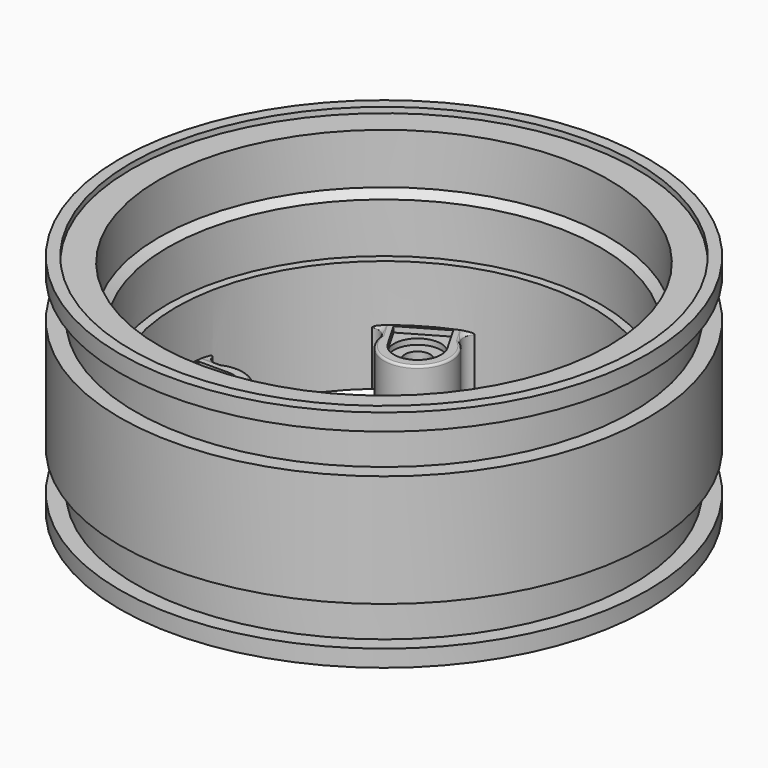
from build123d import *

# Parameters (mm, degrees)
CYLINDER097_R             = 19.25
CYLINDER097_DEPTH         = 5
CYLINDER018_R             = 22.5
CYLINDER018_DEPTH         = 0.5
CYLINDER070_R             = 20
CYLINDER070_DEPTH         = 5
CYLINDER006_R             = 18.5
CYLINDER006_DEPTH         = 20
CYLINDER002_R             = 22.1
CYLINDER002_DEPTH         = 17
CYLINDER001_R             = 23.5
CYLINDER001_DEPTH         = 17
CYLINDER_R                = 23.5
CYLINDER_DEPTH            = 20
CYLINDER003_R             = 22
CYLINDER003_DEPTH         = 17
CYLINDER004_R             = 23.5
CYLINDER004_DEPTH         = 10
BOX011_W                  = 2.7
BOX011_H                  = 4.2
BOX011_DEPTH              = 0.5
CYLINDER069_R             = 2.1
CYLINDER069_DEPTH         = 1
CYLINDER068_R             = 1.1
CYLINDER068_DEPTH         = 5
BOX010_W                  = 0.75
BOX010_H                  = 8
BOX010_DEPTH              = 5
CYLINDER012_R             = 3
CYLINDER012_DEPTH         = 5
BOX_W                     = 2
BOX_H                     = 5.5
BOX_DEPTH                 = 5
FILLET049_R               = 0.2
FILLET050_R               = 1.2
FILLET050_PLACEMENT_ANGLE = 120
FILLET057_R               = 0.2
FILLET058_R               = 1.2
FILLET051_R               = 0.2
FILLET052_R               = 1.2
FILLET052_PLACEMENT_ANGLE = 180
FILLET055_R               = 0.2
FILLET056_R               = 1.2
FILLET056_PLACEMENT_ANGLE = -60
FILLET053_R               = 0.2
FILLET054_R               = 1.2
FILLET054_PLACEMENT_ANGLE = 240
FILLET047_R               = 0.2
FILLET048_R               = 1.2
FILLET048_PLACEMENT_ANGLE = 60
FUSION026_PLACEMENT_ANGLE = 180
FUSION040_PLACEMENT_ANGLE = 180


with BuildPart() as cylinder097:
    # Cylinder097 → Cylinder097 (new body)
    with BuildSketch(Plane.XY.offset(5)):
        Circle(CYLINDER097_R)
    extrude(amount=CYLINDER097_DEPTH)


with BuildPart() as cone:
    # Cone → Cone (revolve)
    with BuildSketch(Plane(origin=(0, 0, 5), x_dir=(1, 0, 0), z_dir=(0, -1, 0))):
        Polygon((0, 0), (20, 0), (12, 6), (0, 6), align=None)
    revolve(axis=Axis((0, 0, 5), (0, 0, 1)))


with BuildPart() as cylinder018:
    # Cylinder018 → Cylinder018 (new body)
    with BuildSketch(Plane.XY):
        Circle(CYLINDER018_R)
    extrude(amount=CYLINDER018_DEPTH)


with BuildPart() as cylinder070:
    # Cylinder070 → Cylinder070 (new body)
    with BuildSketch(Plane.XY):
        Circle(CYLINDER070_R)
    extrude(amount=CYLINDER070_DEPTH)


with BuildPart() as cylinder006:
    # Cylinder006 → Cylinder006 (new body)
    with BuildSketch(Plane.XY):
        Circle(CYLINDER006_R)
    extrude(amount=CYLINDER006_DEPTH)


with BuildPart() as cylinder002:
    # Cylinder002 → Cylinder002 (new body)
    with BuildSketch(Plane.XY):
        Circle(CYLINDER002_R)
    extrude(amount=CYLINDER002_DEPTH)


with BuildPart() as cut:
    # Cylinder001 → Cylinder001 (new body)
    with BuildSketch(Plane.XY):
        Circle(CYLINDER001_R)
    extrude(amount=CYLINDER001_DEPTH)

    # Cut: cut Cylinder002
    add(cylinder002.part, mode=Mode.SUBTRACT)


with BuildPart() as cut_1:
    # Cut placement: moved
    add(cut.part.moved(Location((0, 0, 1.5))))


with BuildPart() as cut001:
    # Cylinder → Cylinder (new body)
    with BuildSketch(Plane.XY):
        Circle(CYLINDER_R)
    extrude(amount=CYLINDER_DEPTH)

    # Cut001: cut Cut
    add(cut_1.part, mode=Mode.SUBTRACT)


with BuildPart() as cylinder003:
    # Cylinder003 → Cylinder003 (new body)
    with BuildSketch(Plane.XY):
        Circle(CYLINDER003_R)
    extrude(amount=CYLINDER003_DEPTH)


with BuildPart() as rim_outer:
    # Cylinder004 → Cylinder004 (new body)
    with BuildSketch(Plane.XY.offset(0.5)):
        Circle(CYLINDER004_R)
    extrude(amount=CYLINDER004_DEPTH)

    # Cut002: cut Cylinder003
    add(cylinder003.part, mode=Mode.SUBTRACT)


with BuildPart() as rim_outer_1:
    # Cut002 placement: moved
    add(rim_outer.part.moved(Location((0, 0, 4.5))))

    # Fusion: union Cut001
    add(cut001.part)

    # Cut031: cut Cylinder006
    add(cylinder006.part, mode=Mode.SUBTRACT)

    # Cut057: cut Cylinder070
    add(cylinder070.part, mode=Mode.SUBTRACT)

    # Cut058: cut Cylinder018
    add(cylinder018.part, mode=Mode.SUBTRACT)

    # Cut061: cut Cone
    add(cone.part, mode=Mode.SUBTRACT)

    # Cut062: cut Cylinder097
    add(cylinder097.part, mode=Mode.SUBTRACT)


with BuildPart() as cube011:
    # Box011 → Box011 (new body)
    with BuildSketch(Plane(origin=(15.5, -2.1, 19.5), x_dir=(1, 0, 0), z_dir=(0, 0, 1))):
        with Locations((1.35, 2.1)):
            Rectangle(BOX011_W, BOX011_H)
    extrude(amount=BOX011_DEPTH)


with BuildPart() as cylinder069:
    # Cylinder069 → Cylinder069 (new body)
    with BuildSketch(Plane(origin=(15.5, 0, 19), x_dir=(1, 0, 0), z_dir=(0, 0, 1))):
        Circle(CYLINDER069_R)
    extrude(amount=CYLINDER069_DEPTH)


with BuildPart() as fusion025:
    # Cylinder068 → Cylinder068 (new body)
    with BuildSketch(Plane(origin=(15.5, 0, 15), x_dir=(1, 0, 0), z_dir=(0, 0, 1))):
        Circle(CYLINDER068_R)
    extrude(amount=CYLINDER068_DEPTH)

    # Fusion025: union Cylinder069
    add(cylinder069.part)


with BuildPart() as cube010:
    # Box010 → Box010 (new body)
    with BuildSketch(Plane(origin=(18.2, -4, 15), x_dir=(1, 0, 0), z_dir=(0, 0, 1))):
        with Locations((0.375, 4)):
            Rectangle(BOX010_W, BOX010_H)
    extrude(amount=BOX010_DEPTH)


with BuildPart() as cylinder012:
    # Cylinder012 → Cylinder012 (new body)
    with BuildSketch(Plane(origin=(15.5, 0, 15), x_dir=(1, 0, 0), z_dir=(0, 0, 1))):
        Circle(CYLINDER012_R)
    extrude(amount=CYLINDER012_DEPTH)


with BuildPart() as cut030:
    # Box → Box (new body)
    with BuildSketch(Plane(origin=(16.5, -2.75, 15), x_dir=(1, 0, 0), z_dir=(0, 0, 1))):
        with Locations((1, 2.75)):
            Rectangle(BOX_W, BOX_H)
    extrude(amount=BOX_DEPTH)

    # Fusion024: union Cube010, Cylinder012
    add(cube010.part)
    add(cylinder012.part)

    # Cut029: cut Fusion025
    add(fusion025.part, mode=Mode.SUBTRACT)

    # Cut030: cut Cube011
    add(cube011.part, mode=Mode.SUBTRACT)


with BuildPart() as fillet050:
    # Fillet049 base: copy of Cut030
    add(cut030.part)

    # Fillet049
    fillet049_edges = [fillet050.edges().sort_by_distance(p)[0] for p in [
        (18.2, -3.375, 20),
        (18.575, -4, 20),
        (17.449479, -2.75, 20),
        (18.95, 0, 20),
        (12.5, 0, 20),
        (18.575, 4, 20),
        (17.449479, 2.75, 20),
        (18.2, 3.375, 20),
    ]]
    fillet(fillet049_edges, radius=FILLET049_R)

    # Fillet050
    fillet050_edges = [fillet050.edges().sort_by_distance(p)[0] for p in [
        (18.2, -2.75, 17.4),
        (18.2, 2.75, 17.4),
    ]]
    fillet(fillet050_edges, radius=FILLET050_R)


with BuildPart() as fillet050_1:
    # Fillet050 placement: moved
    add(fillet050.part.rotate(Axis((0, 0, 0), (0, 0, 1)), FILLET050_PLACEMENT_ANGLE))


with BuildPart() as fillet058:
    # Fillet057 base: copy of Cut030
    add(cut030.part)

    # Fillet057
    fillet057_edges = [fillet058.edges().sort_by_distance(p)[0] for p in [
        (18.2, -3.375, 20),
        (18.575, -4, 20),
        (17.449479, -2.75, 20),
        (18.95, 0, 20),
        (12.5, 0, 20),
        (18.575, 4, 20),
        (17.449479, 2.75, 20),
        (18.2, 3.375, 20),
    ]]
    fillet(fillet057_edges, radius=FILLET057_R)

    # Fillet058
    fillet058_edges = [fillet058.edges().sort_by_distance(p)[0] for p in [
        (18.2, -2.75, 17.4),
        (18.2, 2.75, 17.4),
    ]]
    fillet(fillet058_edges, radius=FILLET058_R)


with BuildPart() as fillet052:
    # Fillet051 base: copy of Cut030
    add(cut030.part)

    # Fillet051
    fillet051_edges = [fillet052.edges().sort_by_distance(p)[0] for p in [
        (18.2, -3.375, 20),
        (18.575, -4, 20),
        (17.449479, -2.75, 20),
        (18.95, 0, 20),
        (12.5, 0, 20),
        (18.575, 4, 20),
        (17.449479, 2.75, 20),
        (18.2, 3.375, 20),
    ]]
    fillet(fillet051_edges, radius=FILLET051_R)

    # Fillet052
    fillet052_edges = [fillet052.edges().sort_by_distance(p)[0] for p in [
        (18.2, -2.75, 17.4),
        (18.2, 2.75, 17.4),
    ]]
    fillet(fillet052_edges, radius=FILLET052_R)


with BuildPart() as fillet052_1:
    # Fillet052 placement: moved
    add(fillet052.part.rotate(Axis((0, 0, 0), (0, 0, 1)), FILLET052_PLACEMENT_ANGLE))


with BuildPart() as fillet056:
    # Fillet055 base: copy of Cut030
    add(cut030.part)

    # Fillet055
    fillet055_edges = [fillet056.edges().sort_by_distance(p)[0] for p in [
        (18.2, -3.375, 20),
        (18.575, -4, 20),
        (17.449479, -2.75, 20),
        (18.95, 0, 20),
        (12.5, 0, 20),
        (18.575, 4, 20),
        (17.449479, 2.75, 20),
        (18.2, 3.375, 20),
    ]]
    fillet(fillet055_edges, radius=FILLET055_R)

    # Fillet056
    fillet056_edges = [fillet056.edges().sort_by_distance(p)[0] for p in [
        (18.2, -2.75, 17.4),
        (18.2, 2.75, 17.4),
    ]]
    fillet(fillet056_edges, radius=FILLET056_R)


with BuildPart() as fillet056_1:
    # Fillet056 placement: moved
    add(fillet056.part.rotate(Axis((0, 0, 0), (0, 0, 1)), FILLET056_PLACEMENT_ANGLE))


with BuildPart() as fillet054:
    # Fillet053 base: copy of Cut030
    add(cut030.part)

    # Fillet053
    fillet053_edges = [fillet054.edges().sort_by_distance(p)[0] for p in [
        (18.2, -3.375, 20),
        (18.575, -4, 20),
        (17.449479, -2.75, 20),
        (18.95, 0, 20),
        (12.5, 0, 20),
        (18.575, 4, 20),
        (17.449479, 2.75, 20),
        (18.2, 3.375, 20),
    ]]
    fillet(fillet053_edges, radius=FILLET053_R)

    # Fillet054
    fillet054_edges = [fillet054.edges().sort_by_distance(p)[0] for p in [
        (18.2, -2.75, 17.4),
        (18.2, 2.75, 17.4),
    ]]
    fillet(fillet054_edges, radius=FILLET054_R)


with BuildPart() as fillet054_1:
    # Fillet054 placement: moved
    add(fillet054.part.rotate(Axis((0, 0, 0), (0, 0, 1)), FILLET054_PLACEMENT_ANGLE))


with BuildPart() as rim_outer_rear:
    # Fillet047 base: copy of Cut030
    add(cut030.part)

    # Fillet047
    fillet047_edges = [rim_outer_rear.edges().sort_by_distance(p)[0] for p in [
        (18.2, -3.375, 20),
        (18.575, -4, 20),
        (17.449479, -2.75, 20),
        (18.95, 0, 20),
        (12.5, 0, 20),
        (18.575, 4, 20),
        (17.449479, 2.75, 20),
        (18.2, 3.375, 20),
    ]]
    fillet(fillet047_edges, radius=FILLET047_R)

    # Fillet048
    fillet048_edges = [rim_outer_rear.edges().sort_by_distance(p)[0] for p in [
        (18.2, -2.75, 17.4),
        (18.2, 2.75, 17.4),
    ]]
    fillet(fillet048_edges, radius=FILLET048_R)


with BuildPart() as rim_outer_rear_1:
    # Fillet048 placement: moved
    add(rim_outer_rear.part.rotate(Axis((0, 0, 0), (0, 0, 1)), FILLET048_PLACEMENT_ANGLE))

    # Fusion026: union Fillet050, Fillet058, Fillet052, Fillet056, Fillet054
    add(fillet050_1.part)
    add(fillet058.part)
    add(fillet052_1.part)
    add(fillet056_1.part)
    add(fillet054_1.part)


with BuildPart() as rim_outer_rear_2:
    # Fusion026 placement: moved
    add(rim_outer_rear_1.part.moved(Location((0, 0, 35))).rotate(Axis((0, 0, 35), (0, 1, 0)), FUSION026_PLACEMENT_ANGLE))

    # Fusion040: union rim-outer
    add(rim_outer_1.part)


with BuildPart() as rim_outer_rear_3:
    # Fusion040 placement: moved
    add(rim_outer_rear_2.part.rotate(Axis((0, 0, 0), (0, 1, 0)), FUSION040_PLACEMENT_ANGLE))


solid = rim_outer_rear_3.part
